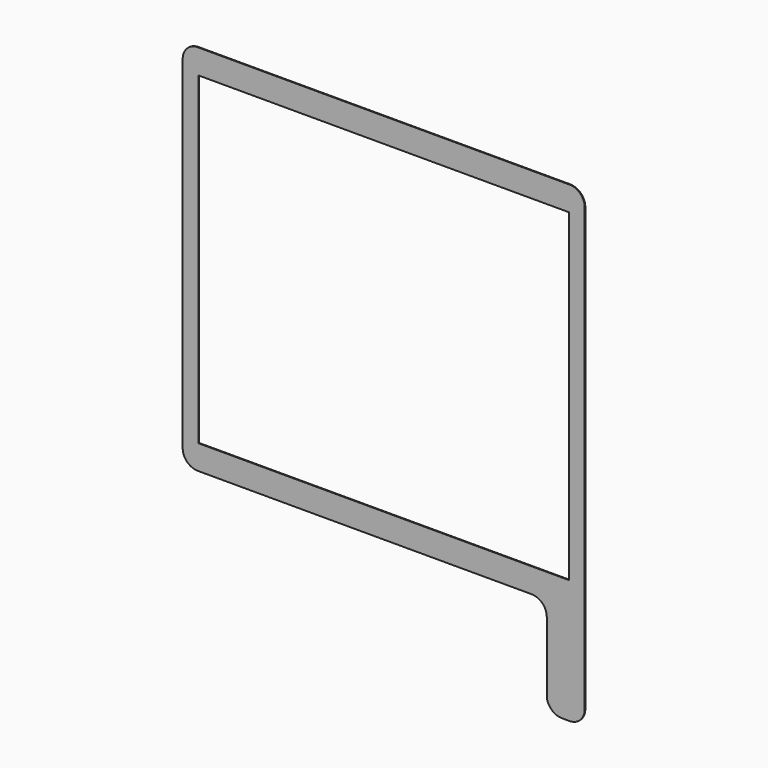
from build123d import *

# Parameters (mm, degrees)
F0_W     = 487.7
F0_H     = 426.7
F1_DEPTH = 1


with BuildPart() as f1:
    # F0 (on Front) → F1 (new body)
    with BuildSketch(Plane.XZ):
        with BuildLine():
            ThreePointArc((0, 20), (5.857864, 5.857864), (20, 0))
            Line((20, 0), (459.8, 0))
            ThreePointArc((459.8, 0), (473.942136, -5.857864), (479.8, -20))
            Line((479.8, -20), (479.8, -110.9))
            ThreePointArc((479.8, -110.9), (485.657864, -125.042136), (499.8, -130.9))
            Line((499.8, -130.9), (509.8, -130.9))
            ThreePointArc((509.8, -130.9), (523.942136, -125.042136), (529.8, -110.9))
            Line((529.8, -110.9), (529.8, 0))
            Line((529.8, 0), (529.8, 471.4))
            ThreePointArc((529.8, 471.4), (523.942136, 485.542136), (509.8, 491.4))
            Line((509.8, 491.4), (20, 491.4))
            ThreePointArc((20, 491.4), (5.857864, 485.542136), (0, 471.4))
            Line((0, 471.4), (0, 20))
        make_face()
        with Locations((264.9, 245.7)):
            Rectangle(F0_W, F0_H, mode=Mode.SUBTRACT)
    extrude(amount=F1_DEPTH)


solid = f1.part
